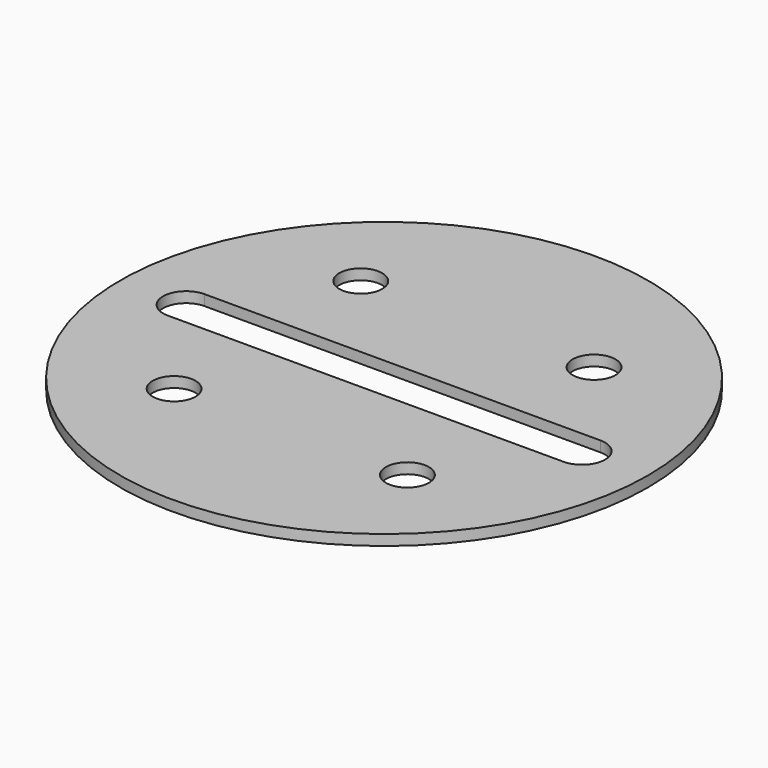
from build123d import *

# Parameters (mm, degrees)
F0_R     = 40
F0_R_2   = 3.25
F1_DEPTH = 1.6


with BuildPart() as f1:
    # F0 (on Top) → F1 (new body)
    with BuildSketch(Plane.XY):
        Circle(F0_R)
        with Locations((-17.67767, -17.67767)):
            Circle(F0_R_2, mode=Mode.SUBTRACT)
        with Locations((17.67767, -17.67767)):
            Circle(F0_R_2, mode=Mode.SUBTRACT)
        with Locations((-17.67767, 17.67767)):
            Circle(F0_R_2, mode=Mode.SUBTRACT)
        with BuildLine():
            ThreePointArc((-30, -3.5), (-33.5, 0), (-30, 3.5))
            Line((-30, 3.5), (30, 3.5))
            ThreePointArc((30, 3.5), (33.5, 0), (30, -3.5))
            Line((30, -3.5), (-30, -3.5))
        make_face(mode=Mode.SUBTRACT)
        with Locations((17.67767, 17.67767)):
            Circle(F0_R_2, mode=Mode.SUBTRACT)
    extrude(amount=F1_DEPTH)


solid = f1.part
